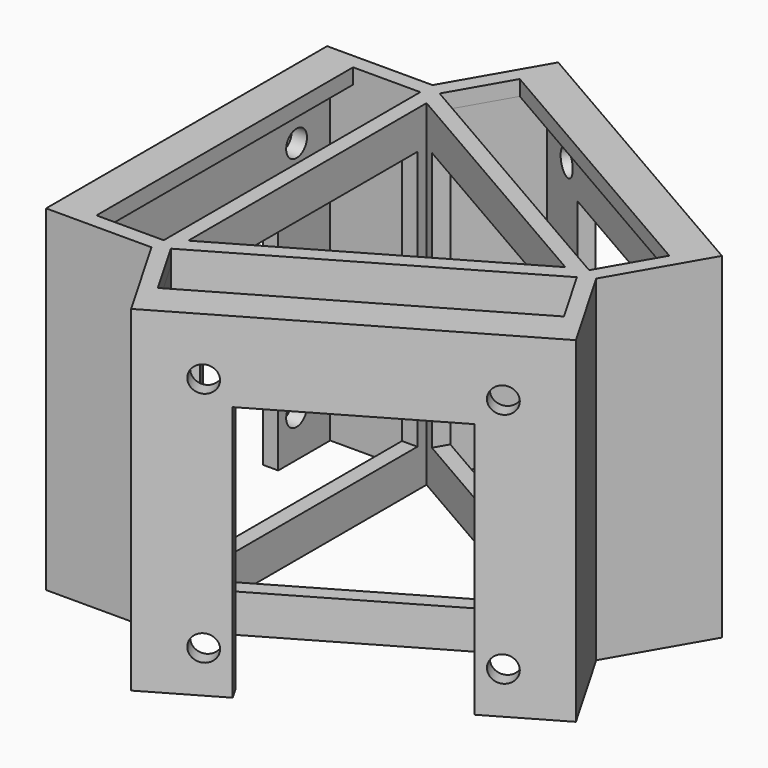
from build123d import *

# Parameters (mm, degrees)
PAD_DEPTH       = 44
PAD001_DEPTH    = 11.8
SKETCH002_R     = 1.7
PAD002_DEPTH    = 2
POCKET_DEPTH    = 5
SKETCH004_W     = 36
SKETCH004_H     = 34
POCKET001_DEPTH = 3
SKETCH005_W     = 36
SKETCH005_H     = 34
POCKET002_DEPTH = 4
PAD003_DEPTH    = 11.8
SKETCH007_R     = 1.7
PAD004_DEPTH    = 2
POCKET003_DEPTH = 2
PAD005_DEPTH    = 11.8
SKETCH010_R     = 1.7
PAD006_DEPTH    = 2
SKETCH011_W     = 8.8
SKETCH011_H     = 42
POCKET004_DEPTH = 2
SKETCH012_W     = 36
SKETCH012_H     = 34
POCKET005_DEPTH = 3


with BuildPart() as part:
    # Sketch → Pad (new body)
    with BuildSketch(Plane.XY):
        Polygon((26.5581123827, 0), (-13.2790561914, 23), (-13.2790561914, -23), align=None)
        Polygon((22.5166604984, 0), (-11.2583302492, 19.5), (-11.2583302492, -19.5), align=None, mode=Mode.SUBTRACT)
    extrude(amount=PAD_DEPTH)

    # Sketch001 (on Face3 of Pad) → Pad001 (join)
    with BuildSketch(Plane(origin=(6.6395280957, -11.5, 0), x_dir=(0.8660254038, 0.5, 0), z_dir=(0.5, -0.8660254038, 0))):
        Polygon((-23, 0), (-21, 0), (-21, 42), (21, 42), (21, 0), (23, 0), (23, 44), (-23, 44), align=None)
    extrude(amount=PAD001_DEPTH)

    # Sketch002 (on Face8 of Pad001) → Pad002 (join)
    with BuildSketch(Plane(origin=(12.5395280957, -21.7190997647, 0), x_dir=(0.8660254038, 0.5, 0), z_dir=(0.5, -0.8660254038, 0))):
        Polygon((-23, 0), (-12.5, 0), (-12.5, 33.5), (12.5, 33.5), (12.5, 0), (23, 0), (23, 44), (-23, 44), align=None)
        with Locations((-15.5, 36.5)):
            Circle(SKETCH002_R, mode=Mode.SUBTRACT)
        with Locations((-15.5, 5.5)):
            Circle(SKETCH002_R, mode=Mode.SUBTRACT)
        with Locations((15.5, 5.5)):
            Circle(SKETCH002_R, mode=Mode.SUBTRACT)
        with Locations((15.5, 36.5)):
            Circle(SKETCH002_R, mode=Mode.SUBTRACT)
    extrude(amount=PAD002_DEPTH)

    # Sketch003 (on Face7 of Pad002) → Pocket (cut)
    with BuildSketch(Plane.XY.offset(44)):
        Polygon((-11.5470053838, -22), (-7.1470053838, -29.6210235533), (29.2260615752, -8.6210235533), (24.8260615752, -1), align=None)
    extrude(amount=-POCKET_DEPTH, mode=Mode.SUBTRACT)

    # Sketch004 (on Face11 of Pocket) → Pocket001 (cut)
    with BuildSketch(Plane(origin=(6.6395280957, -11.5, 0), x_dir=(0.8660254038, 0.5, 0), z_dir=(0.5, -0.8660254038, 0))):
        with Locations((0, 22)):
            Rectangle(SKETCH004_W, SKETCH004_H)
    extrude(amount=-POCKET001_DEPTH, mode=Mode.SUBTRACT)

    # Sketch005 (on Face1 of Pocket001) → Pocket002 (cut)
    with BuildSketch(Plane(origin=(6.6395280957, 11.5, 0), x_dir=(-0.8660254038, 0.5, 0), z_dir=(0.5, 0.8660254038, 0))):
        with Locations((0, 22)):
            Rectangle(SKETCH005_W, SKETCH005_H)
    extrude(amount=-POCKET002_DEPTH, mode=Mode.SUBTRACT)

    # Sketch006 (on Face1 of Pocket002) → Pad003 (join)
    with BuildSketch(Plane(origin=(6.6395280957, 11.5, 0), x_dir=(-0.8660254038, 0.5, 0), z_dir=(0.5, 0.8660254038, 0))):
        Polygon((-23, 44), (23, 44), (23, 0), (21, 0), (21, 42), (-21, 42), (-21, 0), (-23, 0), align=None)
    extrude(amount=PAD003_DEPTH)

    # Sketch007 (on Face19 of Pad003) → Pad004 (join)
    with BuildSketch(Plane(origin=(12.5395280957, 21.7190997647, 0), x_dir=(-0.8660254038, 0.5, 0), z_dir=(0.5, 0.8660254038, 0))):
        Polygon((-23, 0), (-12.5, 0), (-12.5, 33.5), (12.5, 33.5), (12.5, 0), (23, 0), (23, 44), (-23, 44), align=None)
        with Locations((-15.5, 36.5)):
            Circle(SKETCH007_R, mode=Mode.SUBTRACT)
        with Locations((15.5, 36.5)):
            Circle(SKETCH007_R, mode=Mode.SUBTRACT)
        with Locations((15.5, 5.5)):
            Circle(SKETCH007_R, mode=Mode.SUBTRACT)
        with Locations((-15.5, 5.5)):
            Circle(SKETCH007_R, mode=Mode.SUBTRACT)
    extrude(amount=PAD004_DEPTH)

    # Sketch008 (on Face43 of Pad004) → Pocket003 (cut)
    with BuildSketch(Plane.XY.offset(44)):
        Polygon((-11.5470053838, 22), (-7.1470053838, 29.6210235533), (29.2260615751, 8.6210235533), (24.8260615752, 1), align=None)
    extrude(amount=-POCKET003_DEPTH, mode=Mode.SUBTRACT)

    # Sketch009 (on Face12 of Pocket003) → Pad005 (join)
    with BuildSketch(Plane(origin=(-13.2790561914, 0, 0), x_dir=(0, -1, 0), z_dir=(-1, 0, 0))):
        Polygon((-23, 0), (-21, 0), (-21, 42), (21, 42), (21, 0), (23, 0), (23, 44), (-23, 44), align=None)
    extrude(amount=PAD005_DEPTH)

    # Sketch010 (on Face32 of Pad005) → Pad006 (join)
    with BuildSketch(Plane(origin=(-25.0790561914, 0, 0), x_dir=(0, -1, 0), z_dir=(-1, 0, 0))):
        Polygon((-23, 0), (-12.5, 0), (-12.5, 33.5), (12.5, 33.5), (12.5, 0), (23, 0), (23, 44), (-23, 44), align=None)
        with Locations((-15.5, 5.5)):
            Circle(SKETCH010_R, mode=Mode.SUBTRACT)
        with Locations((-15.5, 36.5)):
            Circle(SKETCH010_R, mode=Mode.SUBTRACT)
        with Locations((15.5, 36.5)):
            Circle(SKETCH010_R, mode=Mode.SUBTRACT)
        with Locations((15.5, 5.5)):
            Circle(SKETCH010_R, mode=Mode.SUBTRACT)
    extrude(amount=PAD006_DEPTH)

    # Sketch011 (on Face57 of Pad006) → Pocket004 (cut)
    with BuildSketch(Plane.XY.offset(44)):
        with Locations((-17.6790561914, 0)):
            Rectangle(SKETCH011_W, SKETCH011_H)
    extrude(amount=-POCKET004_DEPTH, mode=Mode.SUBTRACT)

    # Sketch012 (on Face13 of Pocket004) → Pocket005 (cut)
    with BuildSketch(Plane(origin=(-13.2790561914, 0, 0), x_dir=(0, -1, 0), z_dir=(-1, 0, 0))):
        with Locations((0, 22)):
            Rectangle(SKETCH012_W, SKETCH012_H)
    extrude(amount=-POCKET005_DEPTH, mode=Mode.SUBTRACT)


solid = part.part
